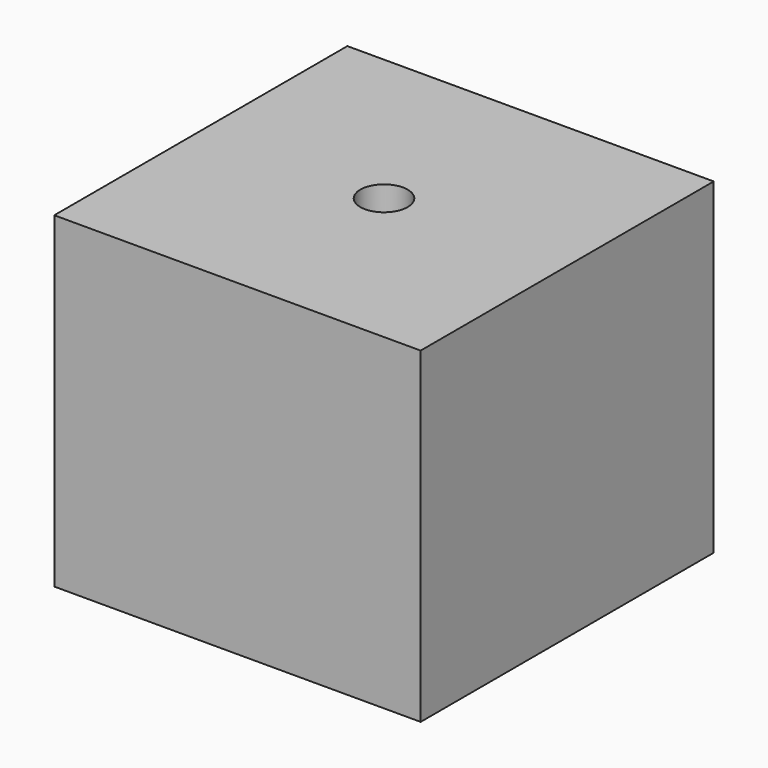
from build123d import *

# Parameters (mm, degrees)
F0_W     = 65
F0_H     = 65
F5_DEPTH = 58
F1_R     = 25.5
F6_DEPTH = 25
F3_R     = 4.2
F7_DEPTH = 134
F4_R     = 7.6
F8_DEPTH = 47
F2_R     = 19.5
F9_DEPTH = 33


with BuildPart() as f5:
    # F0 (on Top) → F5 (new body)
    with BuildSketch(Plane.XY):
        Rectangle(F0_W, F0_H)
    extrude(amount=F5_DEPTH)

    # F1 (on face) → F6 (join)
    with BuildSketch(Plane.XY):
        Circle(F1_R)
    extrude(amount=F6_DEPTH)

    # F3 (on Top) → F7 (cut)
    with BuildSketch(Plane.XY):
        Circle(F3_R)
    extrude(amount=F7_DEPTH, mode=Mode.SUBTRACT)

    # F4 (on Top) → F8 (cut)
    with BuildSketch(Plane.XY):
        Circle(F4_R)
    extrude(amount=F8_DEPTH, mode=Mode.SUBTRACT)

    # F2 (on Top) → F9 (cut)
    with BuildSketch(Plane.XY):
        Circle(F2_R)
    extrude(amount=F9_DEPTH, mode=Mode.SUBTRACT)


solid = f5.part
